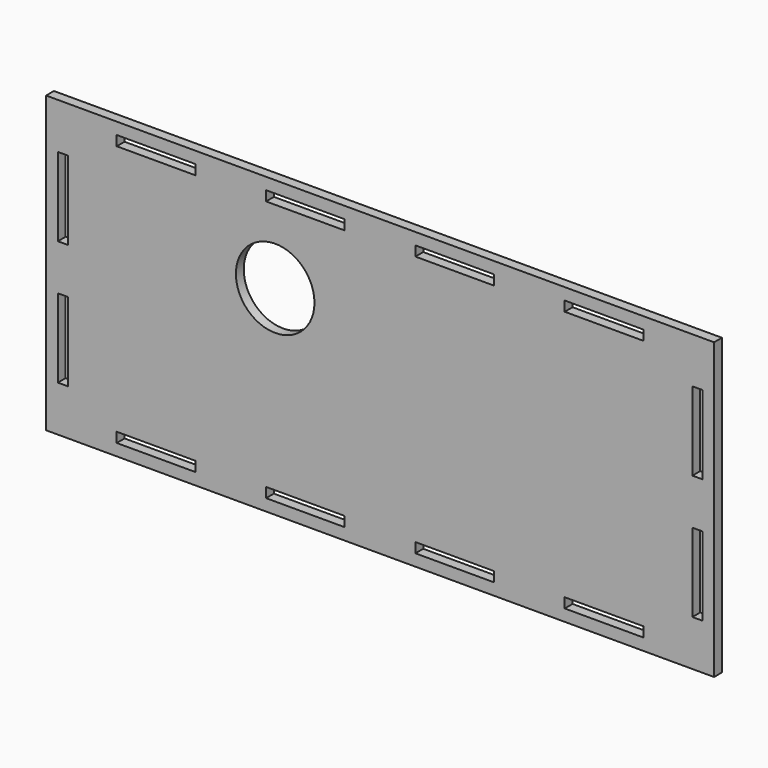
from build123d import *

# Parameters (mm, degrees)
F0_W     = 215.9
F0_H     = 95.25
F0_W_2   = 25.4254
F0_H_2   = 3.2004
F0_W_3   = 3.2004
F0_H_3   = 25.4254
F0_R     = 12.7
F1_DEPTH = 3.175


with BuildPart() as f1:
    # F0 (on Front) → F1 (new body)
    with BuildSketch(Plane.XZ):
        with Locations((10.806967, -3.292766)):
            Rectangle(F0_W, F0_H)
        with Locations((-61.590653, -45.507566)):
            Rectangle(F0_W_2, F0_H_2, mode=Mode.SUBTRACT)
        with Locations((-13.325573, -45.507566)):
            Rectangle(F0_W_2, F0_H_2, mode=Mode.SUBTRACT)
        with Locations((-91.732833, -23.407026)):
            Rectangle(F0_W_3, F0_H_3, mode=Mode.SUBTRACT)
        with Locations((34.939507, -45.507566)):
            Rectangle(F0_W_2, F0_H_2, mode=Mode.SUBTRACT)
        with Locations((83.204587, -45.507566)):
            Rectangle(F0_W_2, F0_H_2, mode=Mode.SUBTRACT)
        with Locations((113.346767, -23.407026)):
            Rectangle(F0_W_3, F0_H_3, mode=Mode.SUBTRACT)
        with Locations((-91.732833, 16.818954)):
            Rectangle(F0_W_3, F0_H_3, mode=Mode.SUBTRACT)
        with Locations((-23.097243, 13.552523)):
            Circle(F0_R, mode=Mode.SUBTRACT)
        with Locations((-61.590653, 38.922034)):
            Rectangle(F0_W_2, F0_H_2, mode=Mode.SUBTRACT)
        with Locations((-13.325573, 38.922034)):
            Rectangle(F0_W_2, F0_H_2, mode=Mode.SUBTRACT)
        with Locations((113.346767, 16.818954)):
            Rectangle(F0_W_3, F0_H_3, mode=Mode.SUBTRACT)
        with Locations((34.939507, 38.922034)):
            Rectangle(F0_W_2, F0_H_2, mode=Mode.SUBTRACT)
        with Locations((83.204587, 38.922034)):
            Rectangle(F0_W_2, F0_H_2, mode=Mode.SUBTRACT)
    extrude(amount=F1_DEPTH)


solid = f1.part
